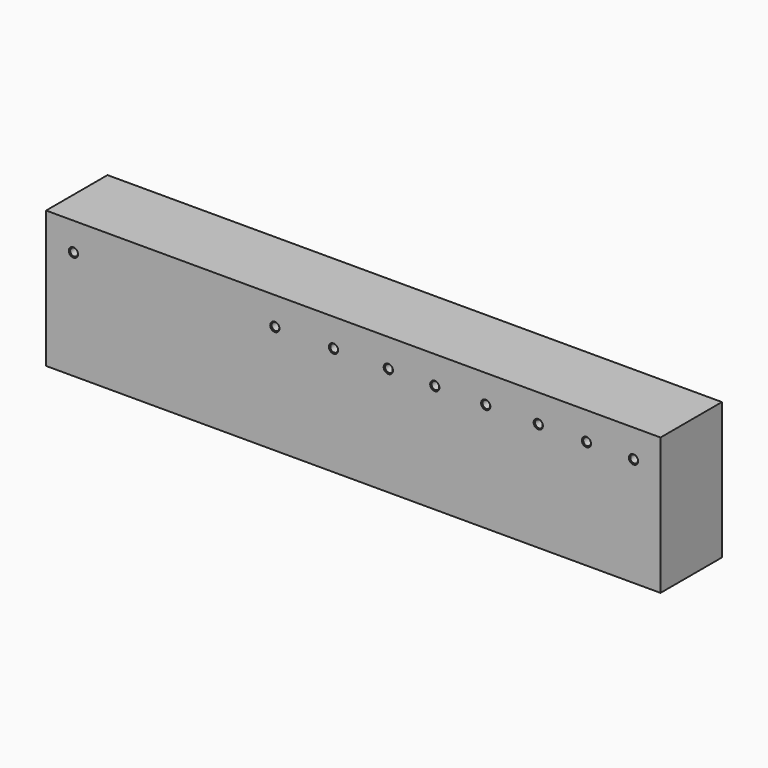
from build123d import *

# Parameters (mm, degrees)
F0_W           = 200.0950425863
F0_H           = 44.5620156825
F1_DEPTH       = 25
F3_D           = 2.5
F3_CSINK_D     = 3
F3_CSINK_ANGLE = 90
F5_D           = 2.5
F5_DEPTH       = 15
F5_CSINK_D     = 3
F5_CSINK_ANGLE = 90
F5_TIP         = 0.7510757738


with BuildPart() as f1:
    # F0 (on Front) → F1 (new body)
    with BuildSketch(Plane.XZ):
        Rectangle(F0_W, F0_H)
    extrude(amount=F1_DEPTH)

    # F3 (through all)
    with Locations(Plane.XZ.offset(25)):
        with Locations((-91.1486074328, 13.1441922858), (-25.5451947451, 13.1441922858), (-6.4415293746, 13.1441922858), (11.4006157964, 13.1441922858), (26.5406873077, 13.1441922858), (43.1231148541, 13.1441922858), (60.2437853813, 13.1441922858), (75.9239122272, 13.1441922858), (91.2448167801, 13.1441922858)):
            CounterSinkHole(F3_D / 2, F3_CSINK_D / 2, counter_sink_angle=F3_CSINK_ANGLE)

    # F5
    with Locations(Plane(origin=(0, 0, -22.2810078412), x_dir=(1, 0, 0), z_dir=(0, 0, -1))):
        with Locations((87.427444756, 20.9353156388), (0, 20.9353156388), (-84.652133286, 20.9353156388)):
            CounterSinkHole(F5_D / 2, F5_CSINK_D / 2, depth=F5_DEPTH, counter_sink_angle=F5_CSINK_ANGLE)
            with Locations((0, 0, -(F5_DEPTH + F5_TIP / 2))):  # 118° drill point
                Cone(0, F5_D / 2, F5_TIP, mode=Mode.SUBTRACT)


solid = f1.part
